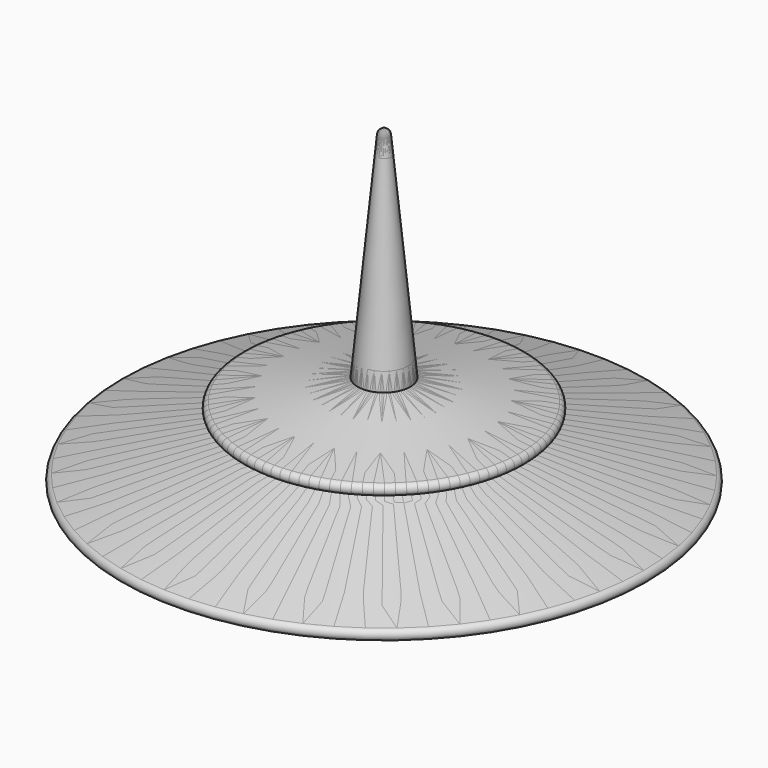
from build123d import *


with BuildPart() as f1:
    # F0 (on Front) → F1 (revolve)
    with BuildSketch(Plane.XZ):
        with BuildLine():
            ThreePointArc((0, -112.465501), (0.358489, -112.440076), (0.709802, -112.364308))
            Line((0.709802, -112.364308), (59.604862, -95.223215))
            ThreePointArc((59.604862, -95.223215), (60.519924, -93.994089), (59.586152, -92.779117))
            Line((59.586152, -92.779117), (24.351667, -83.106906))
            ThreePointArc((24.351667, -83.106906), (23.429235, -81.712597), (24.687857, -80.612212))
            Line((24.687857, -80.612212), (31.210847, -80.612212))
            ThreePointArc((31.210847, -80.612212), (32.474965, -79.4643), (31.453893, -78.095685))
            Line((31.453893, -78.095685), (6.00074, -73.132862))
            Line((6.00074, -73.132862), (1.264124, -24.066012))
            ThreePointArc((1.264124, -24.066012), (0.853792, -23.247863), (0, -22.918043))
            Line((0, -22.918043), (0, -89.41561))
            Line((0, -89.41561), (21.921389, -92.073508))
            Line((21.921389, -92.073508), (0, -105.577305))
            Line((0, -105.577305), (0, -112.465501))
        make_face()
    revolve(axis=Axis((0, 0, -50.193251), (0, 0, -1)))


with BuildPart() as f2:
    # F0 (on Front) → F2 (revolve)
    with BuildSketch(Plane.XZ):
        with BuildLine():
            ThreePointArc((-0.709802, -112.364308), (-0.358489, -112.440076), (0, -112.465501))
            Line((0, -112.465501), (0, -105.577305))
            Line((0, -105.577305), (-21.921389, -92.073508))
            Line((-21.921389, -92.073508), (0, -89.41561))
            Line((0, -89.41561), (0, -22.918043))
            ThreePointArc((0, -22.918043), (-0.853792, -23.247863), (-1.264124, -24.066012))
            Line((-1.264124, -24.066012), (-6.00074, -73.132862))
            Line((-6.00074, -73.132862), (-31.453893, -78.095685))
            ThreePointArc((-31.453893, -78.095685), (-32.474965, -79.4643), (-31.210847, -80.612212))
            Line((-31.210847, -80.612212), (-24.687857, -80.612212))
            ThreePointArc((-24.687857, -80.612212), (-23.429235, -81.712597), (-24.351667, -83.106906))
            Line((-24.351667, -83.106906), (-59.586152, -92.779117))
            ThreePointArc((-59.586152, -92.779117), (-60.519924, -93.994089), (-59.604862, -95.223215))
            Line((-59.604862, -95.223215), (-0.709802, -112.364308))
        make_face()
    revolve(axis=Axis((0, 0, -50.193251), (0, 0, -1)))


solid = Compound([f1.part, f2.part])
